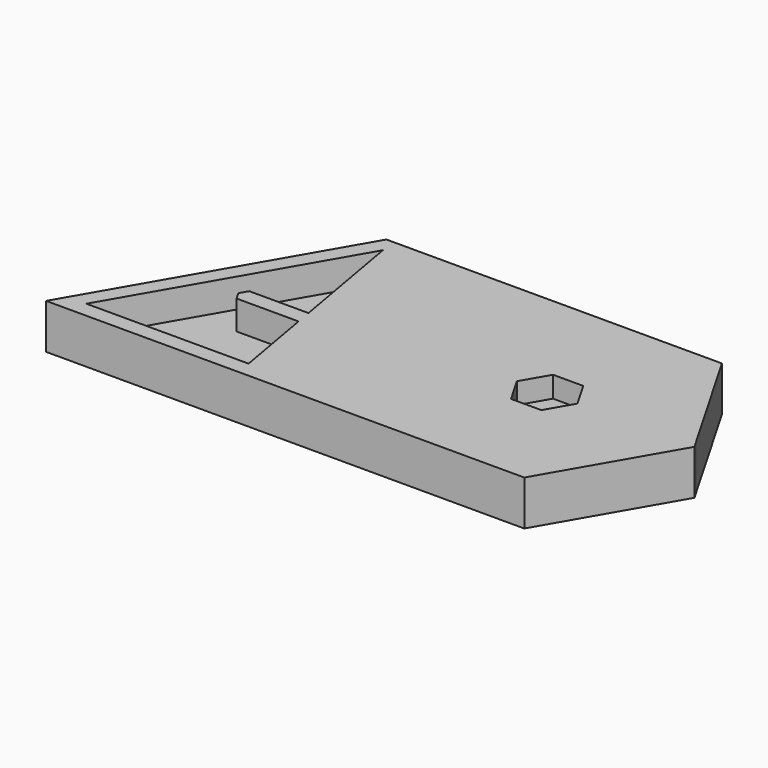
from build123d import *

# Parameters (mm, degrees)
F1_DEPTH = 2
F2_DEPTH = 5.6506898254
F3_DEPTH = 3


with BuildPart() as f1:
    # F0 (on Top) → F1 (new body)
    with BuildSketch(Plane.XY):
        Polygon((-43.2085677565, 22.6745967576), (-58.8549531333, -4.4257376699), (-38.4300476107, -4.4257376699), (-40.2088151152, 5.6621541398), (-48.0090622621, 5.6621541398), (-48.5864125313, 6.6621541398), (-48.0090622621, 7.6621541398), (-40.5614690766, 7.6621541398), align=None)
    extrude(amount=F1_DEPTH)



with BuildPart() as f1b:
    # F0 (on Top) → F1, piece 2 (new body)
    with BuildSketch(Plane.XY):
        Polygon((-41.2085677565, 22.6745967576), (-36.4300476107, -4.4257376699), (-25.5239465254, -4.4257376699), (-23.5239465254, -4.4257376699), (-23.1770010553, -4.4257376699), (-25.5239465254, 8.8844515061), (-33.4898163741, 8.8844515061), (-34.0671666433, 9.8844515061), (-33.4898163741, 10.8844515061), (-22.7936475677, 10.8844515061), (-20.0940481363, -4.4257376699), (-3.2846095154, -4.4257376699), (4.538583173, 9.1244295439), (-3.2846095154, 22.6745967576), (-20.0940481363, 22.6745967576), (-24.4790815038, 15.0794961721), (-25.6024042349, 14.7936511306), (-33.2868439501, 22.6745967576), align=None)
        Polygon((-15.4996355878, 9.1244295439), (-13.5944822068, 12.424251996), (-9.7841754448, 12.424251996), (-7.8790220638, 9.1244295439), (-9.7841754448, 5.8246070917), (-13.5944822068, 5.8246070917), align=None, mode=Mode.SUBTRACT)
    extrude(amount=F1_DEPTH)


with BuildPart() as f1_1:
    add(f1.part)

    add(f1b.part)  # F2 merges F1b
    # F0 (on Top) → F2 (join)
    with BuildSketch(Plane.XY):
        Polygon((-20.0940481363, 24.6745967576), (-44.3632682949, 24.6745967576), (-62.3190547484, -6.4257376699), (-38.9180315569, -6.4257376699), (-2.129908977, -6.4257376699), (6.8479842498, 9.1244295439), (6.2706339806, 10.1244295439), (-2.129908977, 24.6745967576), (-2.8602079346, 24.6745967576), align=None)
        Polygon((-38.4300476107, -4.4257376699), (-58.8549531333, -4.4257376699), (-43.2085677565, 22.6745967576), (-41.2085677565, 22.6745967576), (-33.2868439501, 22.6745967576), (-30.5356123181, 22.6745967576), (-20.0940481363, 22.6745967576), (-3.2846095154, 22.6745967576), (4.538583173, 9.1244295439), (-3.2846095154, -4.4257376699), (-20.0940481363, -4.4257376699), (-23.1770010553, -4.4257376699), (-23.5239465254, -4.4257376699), (-25.5239465254, -4.4257376699), (-36.4300476107, -4.4257376699), align=None, mode=Mode.SUBTRACT)
        Polygon((-41.2085677565, 22.6745967576), (-36.4300476107, -4.4257376699), (-25.5239465254, -4.4257376699), (-23.5239465254, -4.4257376699), (-23.1770010553, -4.4257376699), (-25.5239465254, 8.8844515061), (-33.4898163741, 8.8844515061), (-34.0671666433, 9.8844515061), (-33.4898163741, 10.8844515061), (-22.7936475677, 10.8844515061), (-20.0940481363, -4.4257376699), (-3.2846095154, -4.4257376699), (4.538583173, 9.1244295439), (-3.2846095154, 22.6745967576), (-20.0940481363, 22.6745967576), (-24.4790815038, 15.0794961721), (-25.6024042349, 14.7936511306), (-33.2868439501, 22.6745967576), align=None)
        Polygon((-15.4996355878, 9.1244295439), (-13.5944822068, 12.424251996), (-9.7841754448, 12.424251996), (-7.8790220638, 9.1244295439), (-9.7841754448, 5.8246070917), (-13.5944822068, 5.8246070917), align=None, mode=Mode.SUBTRACT)
        Polygon((-25.5239465254, 8.8844515061), (-23.1770010553, -4.4257376699), (-20.0940481363, -4.4257376699), (-22.7936475677, 10.8844515061), (-33.4898163741, 10.8844515061), (-34.0671666433, 9.8844515061), (-33.4898163741, 8.8844515061), align=None)
        Polygon((-40.2088151152, 5.6621541398), (-38.4300476107, -4.4257376699), (-36.4300476107, -4.4257376699), (-41.2085677565, 22.6745967576), (-43.2085677565, 22.6745967576), (-40.5614690766, 7.6621541398), align=None)
        Polygon((-20.0940481363, 22.6745967576), (-30.5356123181, 22.6745967576), (-24.1704509766, 16.1898996279), (-24.4790815038, 15.0794961721), align=None)
        Polygon((-30.5356123181, 22.6745967576), (-33.2868439501, 22.6745967576), (-25.6024042349, 14.7936511306), (-24.4790815038, 15.0794961721), (-24.1704509766, 16.1898996279), align=None)
        Polygon((-48.0090622621, 5.6621541398), (-40.2088151152, 5.6621541398), (-40.5614690766, 7.6621541398), (-48.0090622621, 7.6621541398), (-48.5864125313, 6.6621541398), align=None)
    extrude(amount=F2_DEPTH)

    # F0 (on Top) → F3 (join)
    with BuildSketch(Plane.XY):
        Polygon((-9.7841754448, 12.424251996), (-13.5944822068, 12.424251996), (-15.4996355878, 9.1244295439), (-13.5944822068, 5.8246070917), (-9.7841754448, 5.8246070917), (-7.8790220638, 9.1244295439), align=None)
    extrude(amount=F3_DEPTH)


solid = f1_1.part
